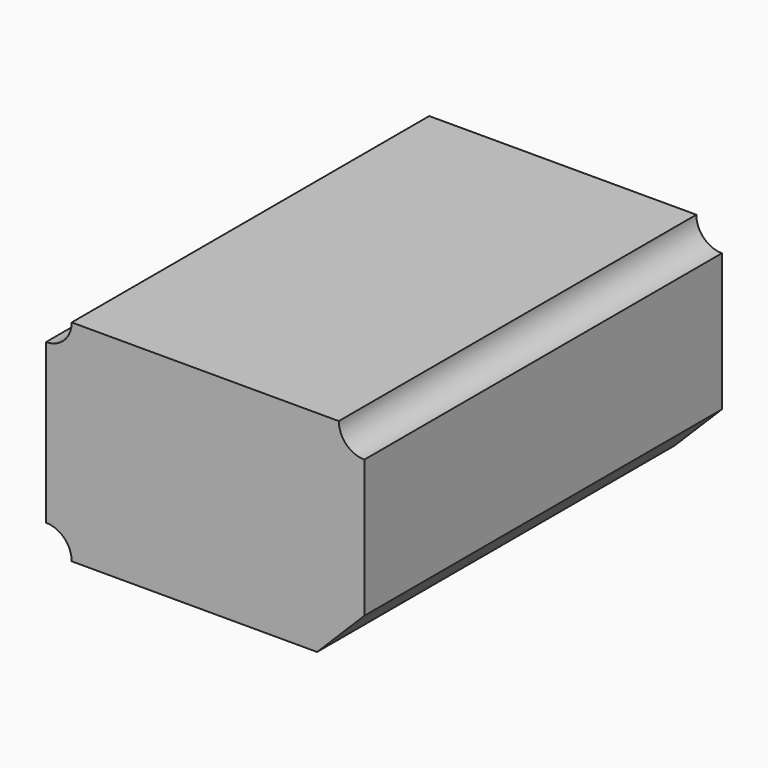
from build123d import *

# Parameters (mm, degrees)
F0_W     = 34.1916419566
F0_H     = 22.5922781974
F1_DEPTH = 48.006
F2_SIZE  = 5.08
F3_D     = 5.5


with BuildPart() as f1:
    # F0 (on Front) → F1 (new body)
    with BuildSketch(Plane.XZ):
        with Locations((38.2087547332, -37.4044654891)):
            Rectangle(F0_W, F0_H)
    extrude(amount=F1_DEPTH)

    # F2
    f2_edges = [f1.edges().sort_by_distance(p)[0] for p in [
        (55.304576, -24.003, -48.700605),
    ]]
    chamfer(f2_edges, length=F2_SIZE)

    # F3 (through all)
    with Locations(Plane(origin=(0, 0, 0), x_dir=(1, 0, 0), z_dir=(0, 1, 0))):
        with Locations((55.3045757115, 48.7006045878), (55.3045757115, 26.1083263904), (21.1129337549, 48.7006045878), (21.1129337549, 26.1083263904)):
            Hole(F3_D / 2)


solid = f1.part
